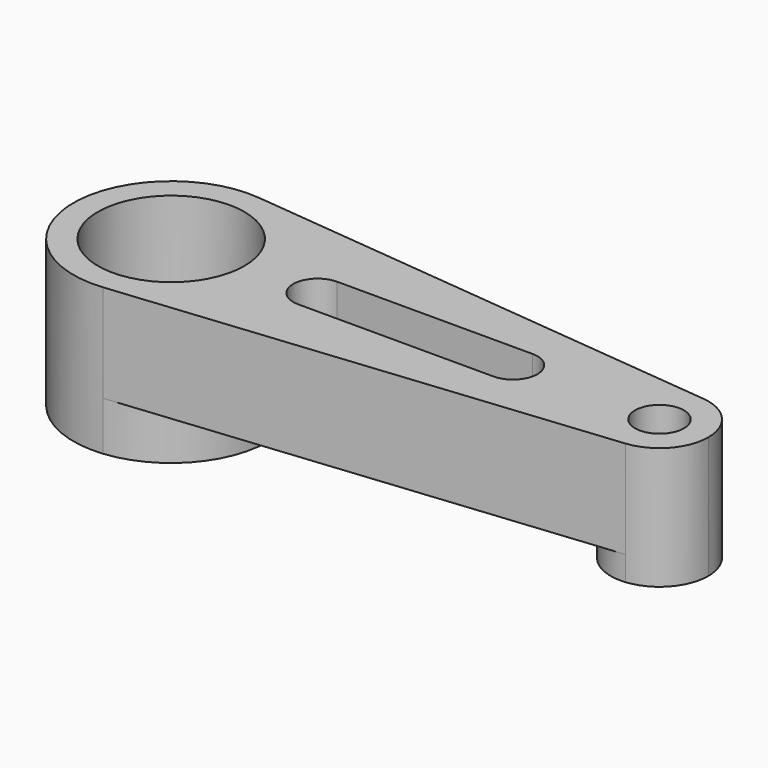
from build123d import *

# Parameters (mm, degrees)
F0_R     = 19.05
F0_R_2   = 6.35
F1_DEPTH = 25.4
F2_DEPTH = 6.35
F3_DEPTH = 12.7


with BuildPart() as f1:
    # F0 (on Top) → F1 (new body)
    with BuildSketch(Plane.XY):
        with BuildLine():
            ThreePointArc((2.54, -25.272681), (18.837144, -17.038838), (25.4, 0))
            ThreePointArc((25.4, 0), (18.837144, 17.038838), (2.54, 25.272681))
            ThreePointArc((2.54, 25.272681), (-25.4, 0), (2.54, -25.272681))
        make_face()
        Circle(F0_R, mode=Mode.SUBTRACT)
        with BuildLine():
            ThreePointArc((2.54, 25.272681), (18.837144, 17.038838), (25.4, 0))
            ThreePointArc((25.4, 0), (18.837144, -17.038838), (2.54, -25.272681))
            Line((2.54, -25.272681), (128.27, -12.63634))
            ThreePointArc((128.27, -12.63634), (114.3, 0), (128.27, 12.63634))
            Line((128.27, 12.63634), (2.54, 25.272681))
        make_face()
        with BuildLine():
            ThreePointArc((38.1, -6.35), (31.75, 0), (38.1, 6.35))
            Line((38.1, 6.35), (88.9, 6.35))
            ThreePointArc((88.9, 6.35), (95.25, 0), (88.9, -6.35))
            Line((88.9, -6.35), (38.1, -6.35))
        make_face(mode=Mode.SUBTRACT)
        with BuildLine():
            ThreePointArc((139.7, 0), (136.418572, 8.519419), (128.27, 12.63634))
            ThreePointArc((128.27, 12.63634), (114.3, 0), (128.27, -12.63634))
            ThreePointArc((128.27, -12.63634), (136.418572, -8.519419), (139.7, 0))
        make_face()
        with Locations((127, 0)):
            Circle(F0_R_2, mode=Mode.SUBTRACT)
    extrude(amount=F1_DEPTH)

    # F0 (on Top) → F2 (join)
    with BuildSketch(Plane.XY):
        with BuildLine():
            ThreePointArc((139.7, 0), (136.418572, 8.519419), (128.27, 12.63634))
            ThreePointArc((128.27, 12.63634), (114.3, 0), (128.27, -12.63634))
            ThreePointArc((128.27, -12.63634), (136.418572, -8.519419), (139.7, 0))
        make_face()
        with Locations((127, 0)):
            Circle(F0_R_2, mode=Mode.SUBTRACT)
    extrude(amount=-F2_DEPTH)

    # F0 (on Top) → F3 (join)
    with BuildSketch(Plane.XY):
        with BuildLine():
            ThreePointArc((2.54, -25.272681), (18.837144, -17.038838), (25.4, 0))
            ThreePointArc((25.4, 0), (18.837144, 17.038838), (2.54, 25.272681))
            ThreePointArc((2.54, 25.272681), (-25.4, 0), (2.54, -25.272681))
        make_face()
        Circle(F0_R, mode=Mode.SUBTRACT)
    extrude(amount=-F3_DEPTH)


solid = f1.part
